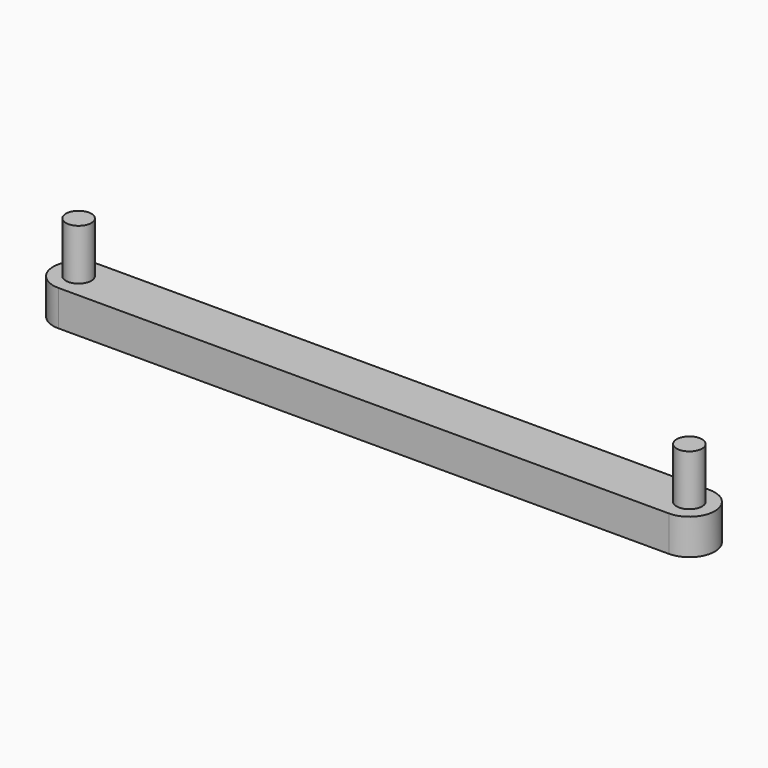
from build123d import *

# Parameters (mm, degrees)
F1_DEPTH = 17.78
F2_R     = 6.35
F3_DEPTH = 25.4


with BuildPart() as f1:
    # F0 (on Top) → F1 (new body)
    with BuildSketch(Plane.XY):
        with BuildLine():
            Line((133.935379, 42.337351), (-170.864621, 42.337351))
            ThreePointArc((-170.864621, 42.337351), (-183.564621, 29.637351), (-170.864621, 16.937351))
            Line((-170.864621, 16.937351), (133.935379, 16.937351))
            ThreePointArc((133.935379, 16.937351), (146.635379, 29.637351), (133.935379, 42.337351))
        make_face()
    extrude(amount=F1_DEPTH)

    # F2 (on face) → F3 (join)
    with BuildSketch(Plane.XY.offset(17.78)):
        with Locations((133.935379, 29.637351)):
            Circle(F2_R)
        with Locations((-170.864621, 29.637351)):
            Circle(F2_R)
    extrude(amount=F3_DEPTH)


solid = f1.part
